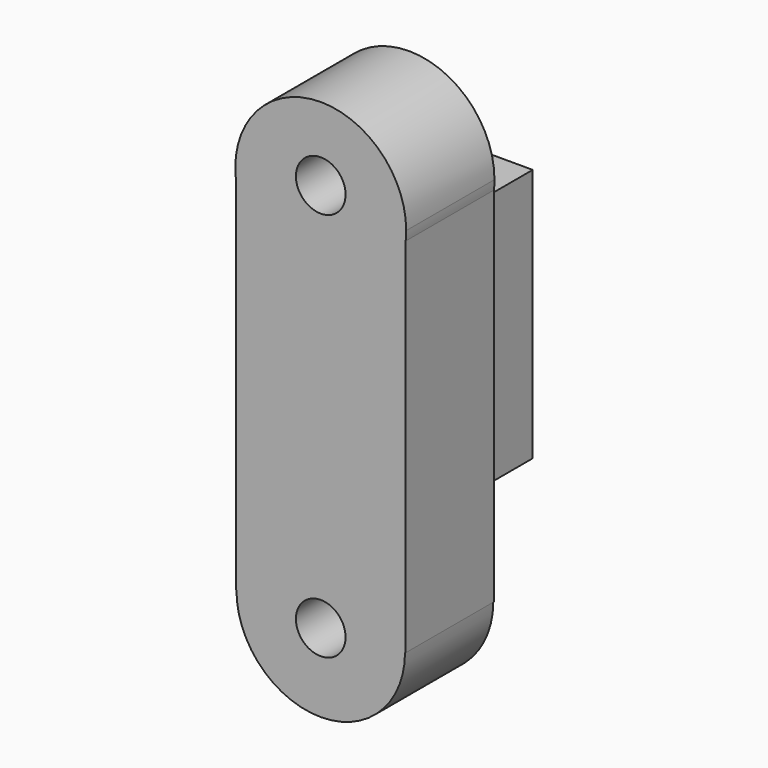
from build123d import *

# Parameters (mm, degrees)
F1_DEPTH = 25.4
F2_R     = 5.715
F3_DEPTH = 25.4
F4_W     = 16.3346650079
F4_H     = 58.4679208696
F5_DEPTH = 25.4


with BuildPart() as f1:
    # F0 (on Front) → F1 (new body)
    with BuildSketch(Plane.XZ):
        with BuildLine():
            Line((-19.5532236248, 40.6393535502), (-19.5532236248, 42.7938178182))
            Line((-19.5532236248, 42.7938178182), (19.5532236248, 42.7938178182))
            Line((19.5532236248, 42.7938178182), (19.5532236248, 40.6393535502))
            ThreePointArc((19.5532236248, 40.6393535502), (19.6419535806, 41.7149619699), (19.6715599383, 42.7938178182))
            ThreePointArc((19.6715599383, 42.7938178182), (-1.0788558483, 62.4357713988), (-19.5532236248, 40.6393535502))
        make_face()
        with BuildLine():
            Line((19.5532236248, 42.7938178182), (-19.5532236248, 42.7938178182))
            Line((-19.5532236248, 42.7938178182), (-19.5532236248, 40.6393535502))
            ThreePointArc((-19.5532236248, 40.6393535502), (0, 23.1222578799), (19.5532236248, 40.6393535502))
            Line((19.5532236248, 40.6393535502), (19.5532236248, 42.7938178182))
        make_face()
        with BuildLine():
            ThreePointArc((19.5532236248, 40.6393535502), (0, 23.1222578799), (-19.5532236248, 40.6393535502))
            Line((-19.5532236248, 40.6393535502), (-19.5532236248, -42.7938178182))
            Line((-19.5532236248, -42.7938178182), (-19.4028248978, -42.7938178182))
            ThreePointArc((-19.4028248978, -42.7938178182), (0, -23.3909929204), (19.4028248978, -42.7938178182))
            Line((19.4028248978, -42.7938178182), (19.5532236248, -42.7938178182))
            Line((19.5532236248, -42.7938178182), (19.5532236248, 40.6393535502))
        make_face()
        with BuildLine():
            ThreePointArc((19.4028248978, -42.7938178182), (0, -23.3909929204), (-19.4028248978, -42.7938178182))
            Line((-19.4028248978, -42.7938178182), (19.4028248978, -42.7938178182))
        make_face()
        with BuildLine():
            Line((19.4028248978, -42.7938178182), (-19.4028248978, -42.7938178182))
            ThreePointArc((-19.4028248978, -42.7938178182), (0, -62.196642716), (19.4028248978, -42.7938178182))
        make_face()
    extrude(amount=F1_DEPTH)

    # F2 (on Front) → F3 (cut)
    with BuildSketch(Plane.XZ):
        with Locations((0, 45.5469058133)):
            Circle(F2_R)
        with Locations((0, -44.1561616667)):
            Circle(F2_R)
    extrude(amount=F3_DEPTH, mode=Mode.SUBTRACT)

    # F4 (on Front) → F5 (join)
    with BuildSketch(Plane.XZ):
        with Locations((-0.0131181441, 1.4724824578)):
            Rectangle(F4_W, F4_H)
    extrude(amount=-F5_DEPTH)


solid = f1.part
